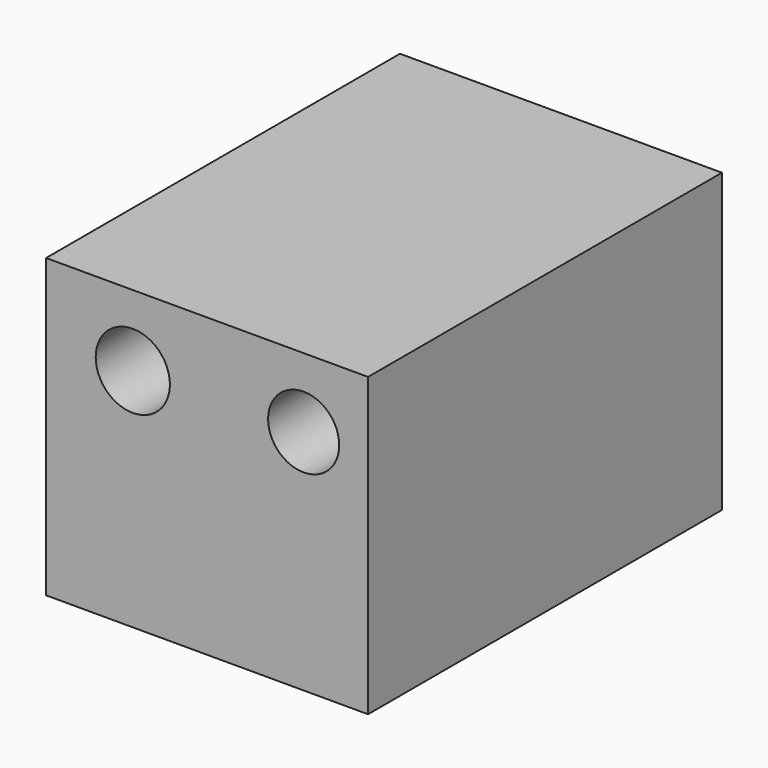
from build123d import *

# Parameters (mm, degrees)
F0_W     = 34.89244
F0_H     = 23.427777
F1_DEPTH = 25.4
F2_R     = 2.80533
F2_R_2   = 2.924594
F3_DEPTH = 34.89344


with BuildPart() as f1:
    # F0 (on Right) → F1 (new body)
    with BuildSketch(Plane.YZ):
        with Locations((17.44622, 11.713888)):
            Rectangle(F0_W, F0_H)
    extrude(amount=F1_DEPTH)

    # F2 (on face) → F3 (cut, through all)
    with BuildSketch(Plane(origin=(0, 34.89244, 0), x_dir=(-1, 0, 0), z_dir=(0, 1, 0))):
        with Locations((-20.318756, 17.947417)):
            Circle(F2_R)
        with Locations((-6.839417, 17.814223)):
            Circle(F2_R_2)
    extrude(amount=-F3_DEPTH, mode=Mode.SUBTRACT)


solid = f1.part
